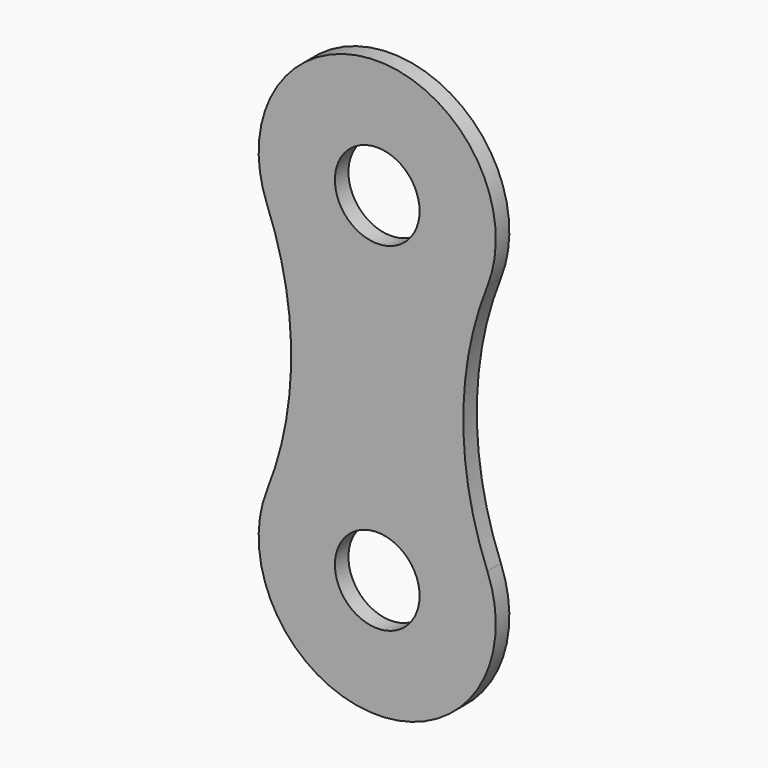
from build123d import *

# Parameters (mm, degrees)
F0_R     = 2.5
F1_DEPTH = 1


with BuildPart() as f1:
    # F0 (on Front) → F1 (new body)
    with BuildSketch(Plane.XZ):
        with BuildLine():
            ThreePointArc((-3.952542, 1.761298), (-5.374859, 9.168706), (-3.952542, 16.576113))
            ThreePointArc((-3.952542, 16.576113), (-10.454731, 26.168706), (-16.95692, 16.576113))
            ThreePointArc((-16.95692, 16.576113), (-15.534603, 9.168706), (-16.95692, 1.761298))
            ThreePointArc((-16.95692, 1.761298), (-10.454731, -7.831294), (-3.952542, 1.761298))
        make_face()
        with Locations((-10.454731, -0.831294)):
            Circle(F0_R, mode=Mode.SUBTRACT)
        with Locations((-10.454731, 19.168706)):
            Circle(F0_R, mode=Mode.SUBTRACT)
    extrude(amount=F1_DEPTH)


solid = f1.part
